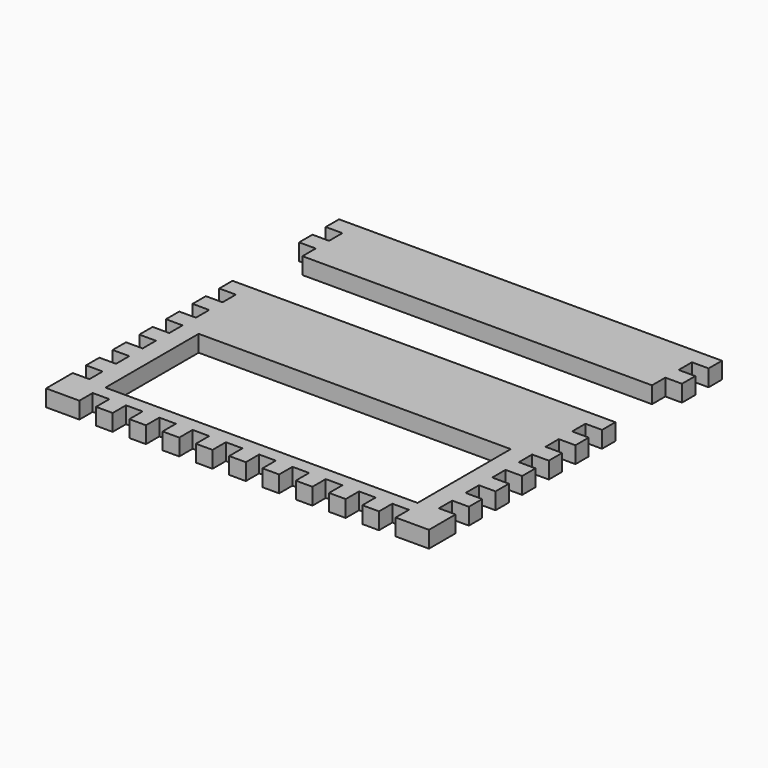
from build123d import *

# Parameters (mm, degrees)
F0_W     = 238.125
F0_H     = 88.9
F1_DEPTH = 12.7


with BuildPart() as f1:
    # F0 (on Top) → F1 (new body)
    with BuildSketch(Plane.XY):
        Polygon((292.1, 0), (0, 0), (0, -12.7), (12.7, -12.7), (12.7, -25.4), (0, -25.4), (0, -38.1), (12.7, -38.1), (12.7, -50.8), (0, -50.8), (0, -63.5), (12.7, -63.5), (12.7, -76.2), (0, -76.2), (0, -88.9), (12.7, -88.9), (12.7, -101.6), (0, -101.6), (0, -114.3), (12.7, -114.3), (12.7, -127), (0, -127), (0, -139.7), (12.7, -139.7), (12.7, -152.4), (0, -152.4), (0, -177.8), (25.4, -177.8), (25.4, -165.1), (38.1, -165.1), (38.1, -177.8), (50.8, -177.8), (50.8, -165.1), (63.5, -165.1), (63.5, -177.8), (76.2, -177.8), (76.2, -165.1), (88.9, -165.1), (88.9, -177.8), (101.6, -177.8), (101.6, -165.1), (114.3, -165.1), (114.3, -177.8), (127, -177.8), (127, -165.1), (139.7, -165.1), (139.7, -177.8), (152.4, -177.8), (152.4, -165.1), (165.1, -165.1), (165.1, -177.8), (177.8, -177.8), (177.8, -165.1), (190.5, -165.1), (190.5, -177.8), (203.2, -177.8), (203.2, -165.1), (215.9, -165.1), (215.9, -177.8), (228.6, -177.8), (228.6, -165.1), (241.3, -165.1), (241.3, -177.8), (254, -177.8), (254, -165.1), (266.7, -165.1), (266.7, -177.8), (292.1, -177.8), (292.1, -152.4), (279.4, -152.4), (279.4, -139.7), (292.1, -139.7), (292.1, -127), (279.4, -127), (279.4, -114.3), (292.1, -114.3), (292.1, -101.6), (279.4, -101.6), (279.4, -88.9), (292.1, -88.9), (292.1, -76.2), (279.4, -76.2), (279.4, -63.5), (292.1, -63.5), (292.1, -50.8), (279.4, -50.8), (279.4, -38.1), (292.1, -38.1), (292.1, -25.4), (279.4, -25.4), (279.4, -12.7), (292.1, -12.7), align=None)
        with Locations((146.05, -110.49)):
            Rectangle(F0_W, F0_H, mode=Mode.SUBTRACT)
        Polygon((292.1, 101.6), (0, 101.6), (0, 88.9), (12.7, 88.9), (12.7, 76.2), (0, 76.2), (0, 63.5), (12.7, 63.5), (12.7, 50.8), (279.4, 50.8), (279.4, 63.5), (292.1, 63.5), (292.1, 76.2), (279.4, 76.2), (279.4, 88.9), (292.1, 88.9), align=None)
    extrude(amount=F1_DEPTH)


solid = f1.part
